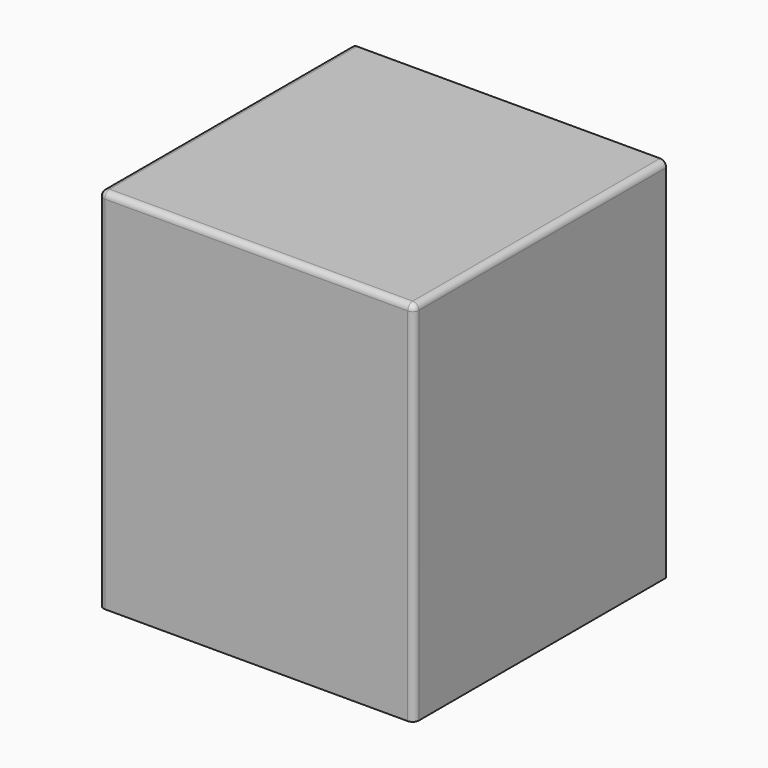
from build123d import *

# Parameters (mm, degrees)
F0_W     = 255
F0_H     = 255
F1_DEPTH = 297
F2_R     = 5


with BuildPart() as f1:
    # F0 (on Top) → F1 (new body)
    with BuildSketch(Plane.XY):
        with Locations((-75.340826, 30.349805)):
            Rectangle(F0_W, F0_H)
    extrude(amount=F1_DEPTH)

    # F2
    f2_edges = [f1.edges().sort_by_distance(p)[0] for p in [
        (52.159174, 30.349805, 297),
        (-202.840826, 30.349805, 297),
        (-202.840826, -97.150195, 148.5),
        (-75.340826, -97.150195, 297),
        (52.159174, -97.150195, 148.5),
    ]]
    fillet(f2_edges, radius=F2_R)


solid = f1.part
